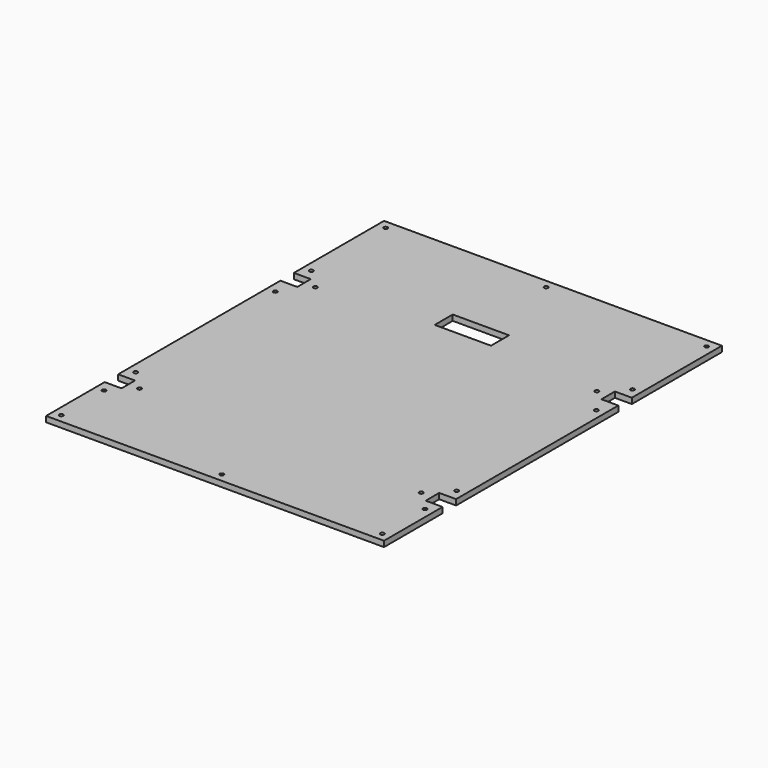
from build123d import *

# Parameters (mm, degrees)
F0_R     = 3.5
F0_W     = 100
F0_H     = 40
F1_DEPTH = 10


with BuildPart() as f1:
    # F0 (on Top) → F1 (new body)
    with BuildSketch(Plane.XY):
        Polygon((300, 175), (300, 375), (-300, 375), (-300, 175), (-270, 175), (-270, 145), (-300, 145), (-300, -215), (-270, -215), (-270, -245), (-300, -245), (-300, -375), (300, -375), (300, -245), (270, -245), (270, -215), (300, -215), (300, 145), (270, 145), (270, 175), align=None)
        with Locations((-285, -360)):
            Circle(F0_R, mode=Mode.SUBTRACT)
        with Locations((-285, -265)):
            Circle(F0_R, mode=Mode.SUBTRACT)
        with Locations((-285, -195)):
            Circle(F0_R, mode=Mode.SUBTRACT)
        with Locations((-250, -230)):
            Circle(F0_R, mode=Mode.SUBTRACT)
        with Locations((0, -360)):
            Circle(F0_R, mode=Mode.SUBTRACT)
        with Locations((285, -360)):
            Circle(F0_R, mode=Mode.SUBTRACT)
        with Locations((285, -265)):
            Circle(F0_R, mode=Mode.SUBTRACT)
        with Locations((250, -230)):
            Circle(F0_R, mode=Mode.SUBTRACT)
        with Locations((285, -195)):
            Circle(F0_R, mode=Mode.SUBTRACT)
        with Locations((-285, 115)):
            Circle(F0_R, mode=Mode.SUBTRACT)
        with Locations((-250, 160)):
            Circle(F0_R, mode=Mode.SUBTRACT)
        with Locations((-285, 195)):
            Circle(F0_R, mode=Mode.SUBTRACT)
        with Locations((-285, 360)):
            Circle(F0_R, mode=Mode.SUBTRACT)
        with Locations((285, 115)):
            Circle(F0_R, mode=Mode.SUBTRACT)
        with Locations((250, 160)):
            Circle(F0_R, mode=Mode.SUBTRACT)
        with Locations((0, 195)):
            Rectangle(F0_W, F0_H, mode=Mode.SUBTRACT)
        with Locations((0, 360)):
            Circle(F0_R, mode=Mode.SUBTRACT)
        with Locations((285, 195)):
            Circle(F0_R, mode=Mode.SUBTRACT)
        with Locations((285, 360)):
            Circle(F0_R, mode=Mode.SUBTRACT)
    extrude(amount=F1_DEPTH)


solid = f1.part
